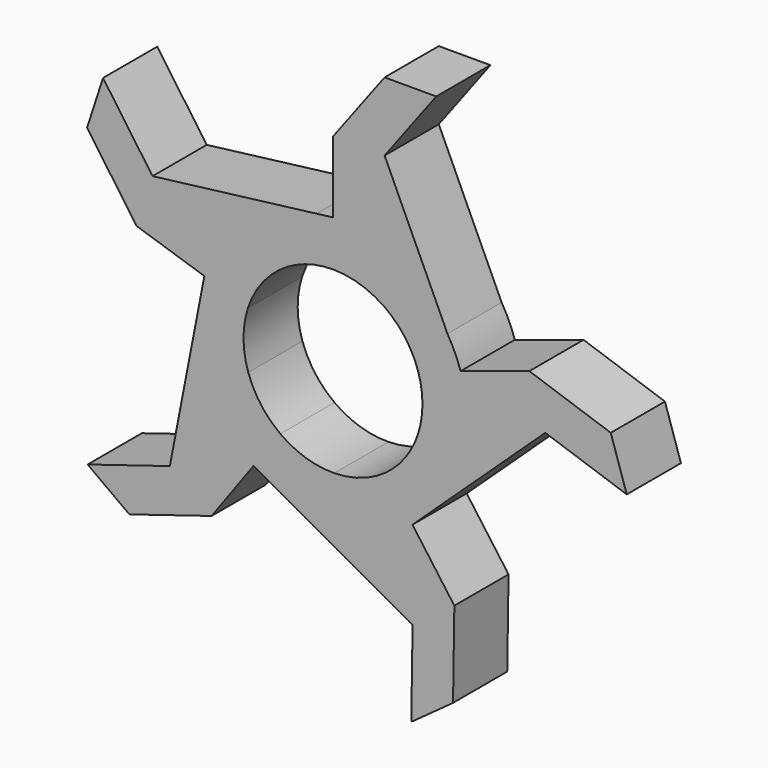
from build123d import *

# Parameters (mm, degrees)
F1_DEPTH = 5


with BuildPart() as f1:
    # F0 (on Front) → F1 (new body)
    with BuildSketch(Plane.XZ):
        with BuildLine():
            ThreePointArc((6.2807772336, 2.0407482309), (6.5226938013, 1.0330932071), (6.604, 0))
            ThreePointArc((6.604, 0), (6.5294502373, -0.9894925964), (6.3074840707, -1.9566452661))
            Line((6.3074840707, -1.9566452661), (9.8738155336, -0.7978739305))
            ThreePointArc((9.8738155336, -0.7978739305), (9.897950613, -0.3992613959), (9.906, 0))
            ThreePointArc((9.906, 0), (9.7840407019, 1.5496398107), (9.4211658504, 3.0611223463))
            Line((9.4211658504, 3.0611223463), (6.2807772336, 2.0407482309))
        make_face()
        with BuildLine():
            ThreePointArc((3.81, 5.3941371877), (5.3166954651, 3.9173416154), (6.2807772336, 2.0407482309))
            Line((6.2807772336, 2.0407482309), (9.4211658504, 3.0611223463))
            Line((9.4211658504, 3.0611223463), (8.4486177468, 5.1720106505))
            ThreePointArc((8.4486177468, 5.1720106505), (6.4430274028, 7.5243759799), (3.81, 9.144))
            Line((3.81, 9.144), (3.81, 5.3941371877))
        make_face()
        with BuildLine():
            Line((9.8738155336, -0.7978739305), (6.3074840707, -1.9566452661))
            ThreePointArc((6.3074840707, -1.9566452661), (5.3685625225, -3.8459527353), (3.8817338061, -5.3427482309))
            Line((3.8817338061, -5.3427482309), (5.8226007092, -8.0141223463))
            ThreePointArc((5.8226007092, -8.0141223463), (6.3048332162, -7.6405440981), (6.763157516, -7.2379925679))
            ThreePointArc((6.763157516, -7.2379925679), (8.9199775829, -4.3084609689), (9.8738155336, -0.7978739305))
        make_face()
        with BuildLine():
            Line((14.4941013083, 4.7094189943), (9.4211658504, 3.0611223463))
            ThreePointArc((9.4211658504, 3.0611223463), (9.7840407019, 1.5496398107), (9.906, 0))
            ThreePointArc((9.906, 0), (9.897950613, -0.3992613959), (9.8738155336, -0.7978739305))
            Line((9.8738155336, -0.7978739305), (15.6714560569, 1.0858936672))
            Line((15.6714560569, 1.0858936672), (14.4941013083, 4.7094189943))
        make_face()
        with BuildLine():
            Line((8.4486177468, 5.1720106505), (9.4211658504, 3.0611223463))
            ThreePointArc((9.4211658504, 3.0611223463), (8.9970136051, 4.1451878352), (8.4486177468, 5.1720106505))
        make_face()
        with BuildLine():
            Line((15.6714560569, 1.0858936672), (9.8738155336, -0.7978739305))
            ThreePointArc((9.8738155336, -0.7978739305), (8.9199775829, -4.3084609689), (6.763157516, -7.2379925679))
            Line((6.763157516, -7.2379925679), (15.6714560569, 1.0858936672))
        make_face()
        with BuildLine():
            ThreePointArc((-3.9527745736, 5.2904053881), (-2.0826640172, 6.2670029992), (0, 6.604))
            Line((0, 6.604), (0, 9.906))
            ThreePointArc((0, 9.906), (-0.6097179629, 9.8872180114), (-1.2171238492, 9.8309432679))
            ThreePointArc((-1.2171238492, 9.8309432679), (-4.6839635346, 8.7286494721), (-7.5191060364, 6.4491767236))
            Line((-7.5191060364, 6.4491767236), (-3.9527745736, 5.2904053881))
        make_face()
        with BuildLine():
            Line((3.81, 15.24), (3.81, 9.144))
            ThreePointArc((3.81, 9.144), (6.4430274028, 7.5243759799), (8.4486177468, 5.1720106505))
            Line((8.4486177468, 5.1720106505), (3.81, 15.24))
        make_face()
        with BuildLine():
            ThreePointArc((0, 9.906), (1.9427264347, 9.7136321734), (3.81, 9.144))
            Line((3.81, 9.144), (3.81, 15.24))
            Line((3.81, 15.24), (0, 15.24))
            Line((0, 15.24), (0, 9.9816298047))
            Line((0, 9.9816298047), (0, 9.906))
        make_face()
        Polygon((20.5028231597, 2.6556999986), (14.4941013083, 4.7094189943), (15.6714560569, 1.0858936672), (21.6801779083, -0.9678253285), align=None)
        with BuildLine():
            Line((2.2923535984, -9.6371132078), (0.0882395392, -6.6034104661))
            ThreePointArc((0.0882395392, -6.6034104661), (-1.9987413555, -6.2942711249), (-3.8817338061, -5.3427482309))
            Line((-3.8817338061, -5.3427482309), (-5.8226007092, -8.0141223463))
            ThreePointArc((-5.8226007092, -8.0141223463), (-5.3182886736, -8.3573106669), (-4.793809454, -8.6688076988))
            ThreePointArc((-4.793809454, -8.6688076988), (-1.3411652542, -9.8147904593), (2.2923535984, -9.6371132078))
        make_face()
        with BuildLine():
            Line((5.8670547931, -8.0753081436), (5.8226007092, -8.0141223463))
            ThreePointArc((5.8226007092, -8.0141223463), (4.1378310366, -9.0003994529), (2.2923535984, -9.6371132078))
            Line((2.2923535984, -9.6371132078), (5.8754924964, -14.5688808055))
            Line((5.8754924964, -14.5688808055), (8.9578472449, -12.3294189943))
            Line((8.9578472449, -12.3294189943), (5.8670547931, -8.0753081436))
        make_face()
        with BuildLine():
            ThreePointArc((6.763157516, -7.2379925679), (6.3048332162, -7.6405440981), (5.8226007092, -8.0141223463))
            Line((5.8226007092, -8.0141223463), (5.8670547931, -8.0753081436))
            Line((5.8670547931, -8.0753081436), (6.763157516, -7.2379925679))
        make_face()
        with BuildLine():
            ThreePointArc((-1.2171238492, 9.8309432679), (-0.6097179629, 9.8872180114), (0, 9.906))
            Line((0, 9.906), (0, 9.9816298047))
            Line((0, 9.9816298047), (-1.2171238492, 9.8309432679))
        make_face()
        Polygon((3.81, 20.32), (3.81, 15.24), (7.62, 20.32), align=None)
        Polygon((0, 15.24), (3.81, 15.24), (3.81, 20.32), align=None)
        with BuildLine():
            Line((5.8754924964, -14.5688808055), (2.2923535984, -9.6371132078))
            ThreePointArc((2.2923535984, -9.6371132078), (-1.3411652542, -9.8147904593), (-4.793809454, -8.6688076988))
            Line((-4.793809454, -8.6688076988), (5.8754924964, -14.5688808055))
        make_face()
        with BuildLine():
            ThreePointArc((-6.2529490364, -2.1244868436), (-6.6038526149, -0.0441207543), (-6.2807772336, 2.0407482309))
            Line((-6.2807772336, 2.0407482309), (-9.4211658504, 3.0611223463))
            ThreePointArc((-9.4211658504, 3.0611223463), (-9.5917163846, 2.47544194), (-9.7258946926, 1.8803745449))
            ThreePointArc((-9.7258946926, 1.8803745449), (-9.7488632535, -1.7574132312), (-8.4570630955, -5.1581895853))
            Line((-8.4570630955, -5.1581895853), (-6.2529490364, -2.1244868436))
        make_face()
        with BuildLine():
            Line((-13.3167465598, 8.3329443214), (-7.5191060364, 6.4491767236))
            ThreePointArc((-7.5191060364, 6.4491767236), (-4.6839635346, 8.7286494721), (-1.2171238492, 9.8309432679))
            Line((-1.2171238492, 9.8309432679), (-13.3167465598, 8.3329443214))
        make_face()
        with BuildLine():
            ThreePointArc((-9.4211658504, 3.0611223463), (-8.6378776917, 4.8493200538), (-7.5191060364, 6.4491767236))
            Line((-7.5191060364, 6.4491767236), (-13.3167465598, 8.3329443214))
            Line((-13.3167465598, 8.3329443214), (-14.4941013083, 4.7094189943))
            Line((-14.4941013083, 4.7094189943), (-9.493094069, 3.0844932412))
            Line((-9.493094069, 3.0844932412), (-9.4211658504, 3.0611223463))
        make_face()
        with BuildLine():
            Line((-5.8670547931, -8.0753081436), (-5.8226007092, -8.0141223463))
            ThreePointArc((-5.8226007092, -8.0141223463), (-7.2812284388, -6.7165875578), (-8.4570630955, -5.1581895853))
            Line((-8.4570630955, -5.1581895853), (-12.0402019935, -10.089957183))
            Line((-12.0402019935, -10.089957183), (-8.9578472449, -12.3294189943))
            Line((-8.9578472449, -12.3294189943), (-5.8670547931, -8.0753081436))
        make_face()
        with BuildLine():
            ThreePointArc((-4.793809454, -8.6688076988), (-5.3182886736, -8.3573106669), (-5.8226007092, -8.0141223463))
            Line((-5.8226007092, -8.0141223463), (-5.8670547931, -8.0753081436))
            Line((-5.8670547931, -8.0753081436), (-4.793809454, -8.6688076988))
        make_face()
        Polygon((8.9578472449, -12.3294189943), (5.8754924964, -14.5688808055), (5.7790868294, -20.9181489482), (8.861441578, -18.6786871369), align=None)
        with BuildLine():
            ThreePointArc((-9.7258946926, 1.8803745449), (-9.5917163846, 2.47544194), (-9.4211658504, 3.0611223463))
            Line((-9.4211658504, 3.0611223463), (-9.493094069, 3.0844932412))
            Line((-9.493094069, 3.0844932412), (-9.7258946926, 1.8803745449))
        make_face()
        Polygon((-14.4941013083, 4.7094189943), (-13.3167465598, 8.3329443214), (-16.970758914, 13.5262759799), (-18.1481136625, 9.9027506528), align=None)
        with BuildLine():
            Line((-12.0402019935, -10.089957183), (-8.4570630955, -5.1581895853))
            ThreePointArc((-8.4570630955, -5.1581895853), (-9.7488632535, -1.7574132312), (-9.7258946926, 1.8803745449))
            Line((-9.7258946926, 1.8803745449), (-12.0402019935, -10.089957183))
        make_face()
        Polygon((-8.9578472449, -12.3294189943), (-12.0402019935, -10.089957183), (-18.1085058237, -11.9603017032), (-15.0261510752, -14.1997635145), align=None)
        with BuildLine():
            Line((-5.8226007092, -8.0141223463), (-3.8817338061, -5.3427482309))
            ThreePointArc((-3.8817338061, -5.3427482309), (-5.3166954651, -3.9173416154), (-6.2529490364, -2.1244868436))
            Line((-6.2529490364, -2.1244868436), (-8.4570630955, -5.1581895853))
            ThreePointArc((-8.4570630955, -5.1581895853), (-7.2812284388, -6.7165875578), (-5.8226007092, -8.0141223463))
        make_face()
        with BuildLine():
            Line((5.8226007092, -8.0141223463), (3.8817338061, -5.3427482309))
            ThreePointArc((3.8817338061, -5.3427482309), (2.0826640172, -6.2670029992), (0.0882395392, -6.6034104661))
            Line((0.0882395392, -6.6034104661), (2.2923535984, -9.6371132078))
            ThreePointArc((2.2923535984, -9.6371132078), (4.1378310366, -9.0003994529), (5.8226007092, -8.0141223463))
        make_face()
        with BuildLine():
            ThreePointArc((-6.2807772336, 2.0407482309), (-5.3685625225, 3.8459527353), (-3.9527745736, 5.2904053881))
            Line((-3.9527745736, 5.2904053881), (-7.5191060364, 6.4491767236))
            ThreePointArc((-7.5191060364, 6.4491767236), (-8.6378776917, 4.8493200538), (-9.4211658504, 3.0611223463))
            Line((-9.4211658504, 3.0611223463), (-6.2807772336, 2.0407482309))
        make_face()
        with BuildLine():
            ThreePointArc((0, 6.604), (1.9987413555, 6.2942711249), (3.81, 5.3941371877))
            Line((3.81, 5.3941371877), (3.81, 9.144))
            ThreePointArc((3.81, 9.144), (1.9427264347, 9.7136321734), (0, 9.906))
            Line((0, 9.906), (0, 6.604))
        make_face()
    extrude(amount=F1_DEPTH)


solid = f1.part
